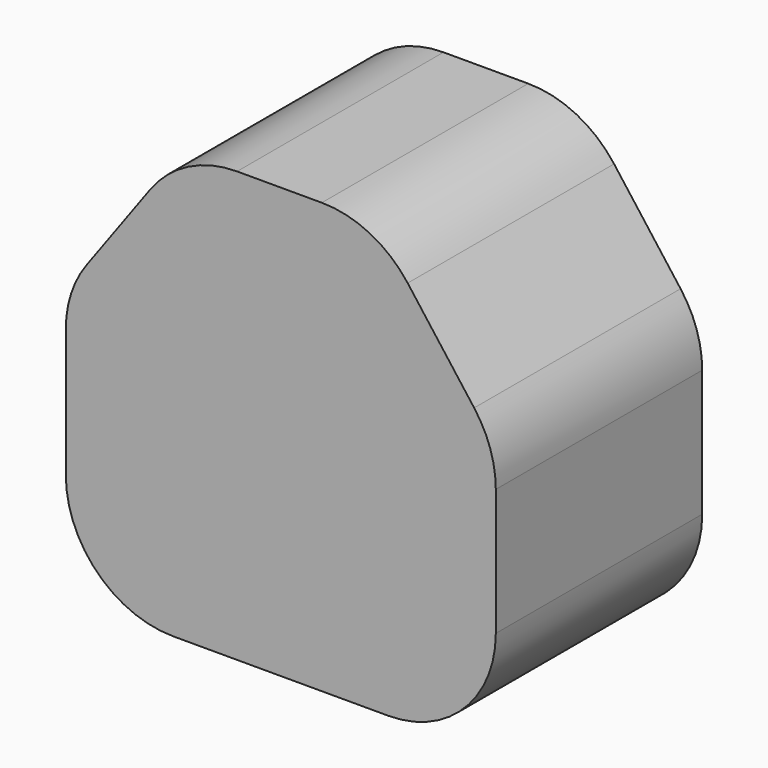
from build123d import *

# Parameters (mm, degrees)
F1_DEPTH = 60
F2_R     = 26.678258
F3_DEPTH = 25


with BuildPart() as f1:
    # F0 (on Front) → F1 (new body)
    with BuildSketch(Plane.XZ):
        with BuildLine():
            Line((4.061145, 78.143452), (-15.64565, 78.143452))
            ThreePointArc((-15.64565, 78.143452), (-26.968879, 75.432115), (-35.83602, 67.886212))
            Line((-35.83602, 67.886212), (-50.667426, 47.57444))
            ThreePointArc((-50.667426, 47.57444), (-54.244252, 40.585414), (-55.477056, 32.831681))
            Line((-55.477056, 32.831681), (-55.477056, 3.143452))
            ThreePointArc((-55.477056, 3.143452), (-48.154725, -14.534217), (-30.477056, -21.856548))
            Line((-30.477056, -21.856548), (19.522944, -21.856548))
            ThreePointArc((19.522944, -21.856548), (37.200614, -14.534217), (44.522944, 3.143452))
            Line((44.522944, 3.143452), (44.522944, 32.623266))
            ThreePointArc((44.522944, 32.623266), (43.231192, 40.555414), (39.489426, 47.667853))
            Line((39.489426, 47.667853), (24.027628, 68.188039))
            ThreePointArc((24.027628, 68.188039), (15.216533, 75.516591), (4.061145, 78.143452))
        make_face()
    extrude(amount=F1_DEPTH)

    # F2 (on face) → F3 (cut)
    with BuildSketch(Plane(origin=(0, 0, 0), x_dir=(-1, 0, 0), z_dir=(0, 1, 0))):
        with Locations((6.659664, 24.698926)):
            Circle(F2_R)
    extrude(amount=-F3_DEPTH, mode=Mode.SUBTRACT)


solid = f1.part
